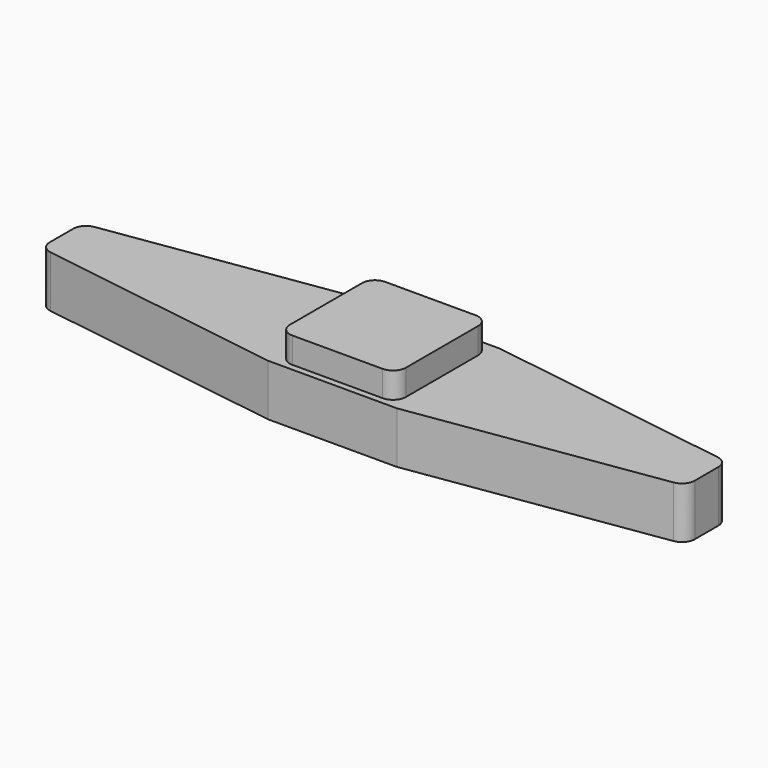
from build123d import *

# Parameters (mm, degrees)
F1_DEPTH = 1
F2_W     = 5
F2_H     = 5
F3_DEPTH = 2


with BuildPart() as f1:
    # F0 (on Top) → F1 (new body)
    with BuildSketch(Plane.XY):
        with BuildLine():
            Line((1.75, 2.25), (-1.75, 2.25))
            ThreePointArc((-1.75, 2.25), (-2.103553, 2.103553), (-2.25, 1.75))
            Line((-2.25, 1.75), (-2.25, -1.75))
            ThreePointArc((-2.25, -1.75), (-2.103553, -2.103553), (-1.75, -2.25))
            Line((-1.75, -2.25), (1.75, -2.25))
            ThreePointArc((1.75, -2.25), (2.103553, -2.103553), (2.25, -1.75))
            Line((2.25, -1.75), (2.25, 1.75))
            ThreePointArc((2.25, 1.75), (2.103553, 2.103553), (1.75, 2.25))
        make_face()
    extrude(amount=F1_DEPTH)

    # F2 (on Top) → F3 (join)
    with BuildSketch(Plane.XY):
        Rectangle(F2_W, F2_H)
        with BuildLine():
            Line((-12.07417, -1.063874), (-2.5, -2.5))
            Line((-2.5, -2.5), (-2.5, 2.5))
            Line((-2.5, 2.5), (-12.07417, 1.063874))
            ThreePointArc((-12.07417, 1.063874), (-12.37887, 0.895684), (-12.5, 0.569406))
            Line((-12.5, 0.569406), (-12.5, -0.569406))
            ThreePointArc((-12.5, -0.569406), (-12.37887, -0.895684), (-12.07417, -1.063874))
        make_face()
        with BuildLine():
            Line((2.5, 2.5), (2.5, -2.5))
            Line((2.5, -2.5), (12.07417, -1.063874))
            ThreePointArc((12.07417, -1.063874), (12.37887, -0.895684), (12.5, -0.569406))
            Line((12.5, -0.569406), (12.5, 0.569406))
            ThreePointArc((12.5, 0.569406), (12.37887, 0.895684), (12.07417, 1.063874))
            Line((12.07417, 1.063874), (2.5, 2.5))
        make_face()
    extrude(amount=-F3_DEPTH)


solid = f1.part
